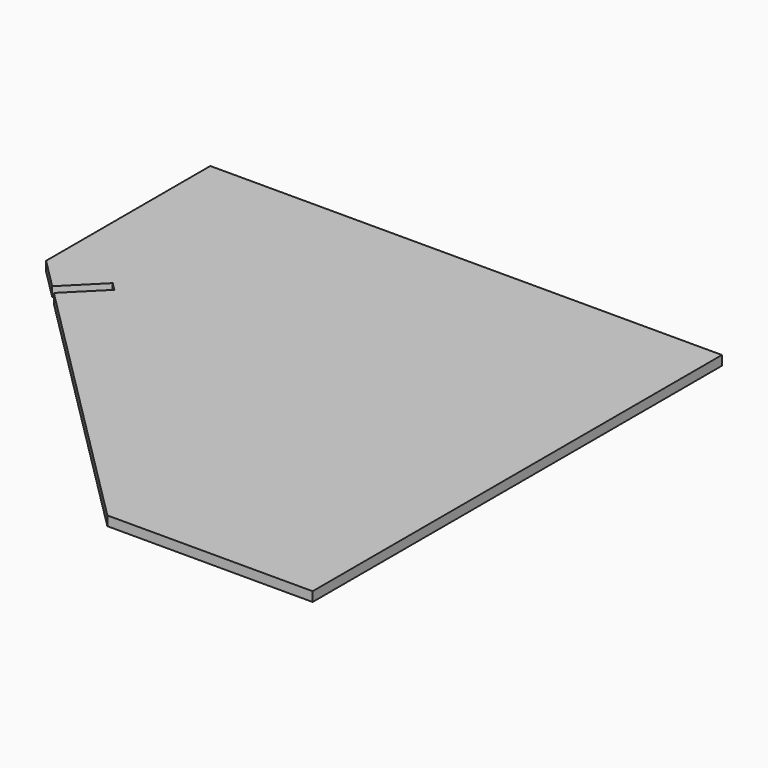
from build123d import *

# Parameters (mm, degrees)
F1_DEPTH = 15.875
F3_DEPTH = 25.4
F5_DEPTH = 25.4


with BuildPart() as f1:
    # F0 (on Top) → F1 (new body)
    with BuildSketch(Plane.XY):
        Polygon((0, 466.725), (488.95, -22.225), (854.075, -22.225), (854.075, 831.85), (0, 831.85), align=None)
    extrude(amount=-F1_DEPTH)

    # F2 (on face) → F3 (cut)
    with BuildSketch(Plane.XY):
        Polygon((-101.9354011834, 568.6604011834), (244.475, 222.25), (590.8854011834, -124.1604011834), (602.1107213347, -112.935081032), (257.2878201513, 231.8878201513), (254.1128201513, 235.0628201513), (-90.710081032, 579.8857213347), align=None)
    extrude(amount=-F3_DEPTH, mode=Mode.SUBTRACT)

    # F4 (on face) → F5 (cut)
    with BuildSketch(Plane.XY):
        Polygon((107.249497258, 494.179344558), (51.1228965013, 438.0527438014), (64.5932806829, 424.5823596198), (120.7198814396, 480.7089603764), align=None)
    extrude(amount=-F5_DEPTH, mode=Mode.SUBTRACT)


solid = f1.part
